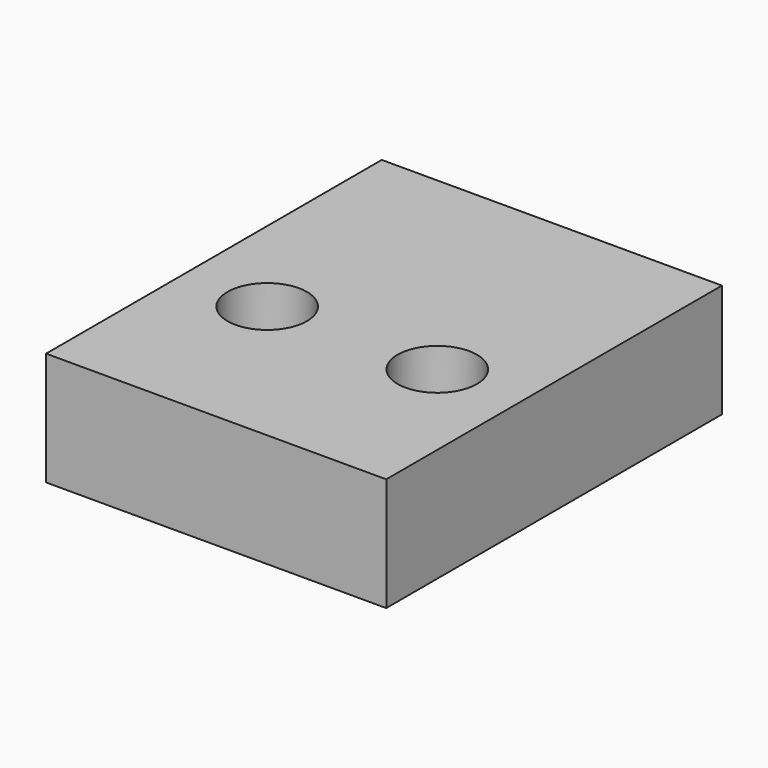
from build123d import *

# Parameters (mm, degrees)
F0_W     = 76.2
F0_H     = 76.2
F0_R     = 8.89
F0_H_2   = 17.78
F1_DEPTH = 25.4


with BuildPart() as f1:
    # F0 (on Top) → F1 (new body)
    with BuildSketch(Plane.XY):
        with Locations((-3.790651, -18.235706)):
            Rectangle(F0_W, F0_H)
        with Locations((-22.840651, -18.235706)):
            Circle(F0_R, mode=Mode.SUBTRACT)
        with Locations((15.259349, -18.235706)):
            Circle(F0_R, mode=Mode.SUBTRACT)
        with Locations((-3.790651, 28.754294)):
            Rectangle(F0_W, F0_H_2)
    extrude(amount=F1_DEPTH)


solid = f1.part
